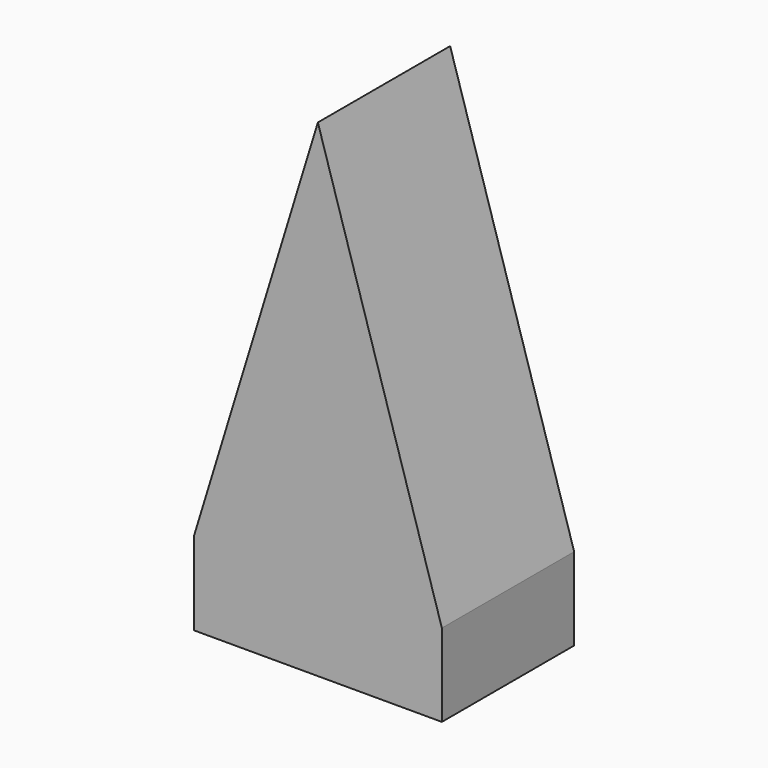
from build123d import *

# Parameters (mm, degrees)
F0_W     = 3
F0_H     = 1
F1_DEPTH = 2


with BuildPart() as f1:
    # F0 (on Front) → F1 (new body)
    with BuildSketch(Plane.XZ):
        Rectangle(F0_W, F0_H)
        Polygon((-1.5, 0.5), (1.5, 0.5), (0, 5.396), align=None)
    extrude(amount=-F1_DEPTH)


solid = f1.part
